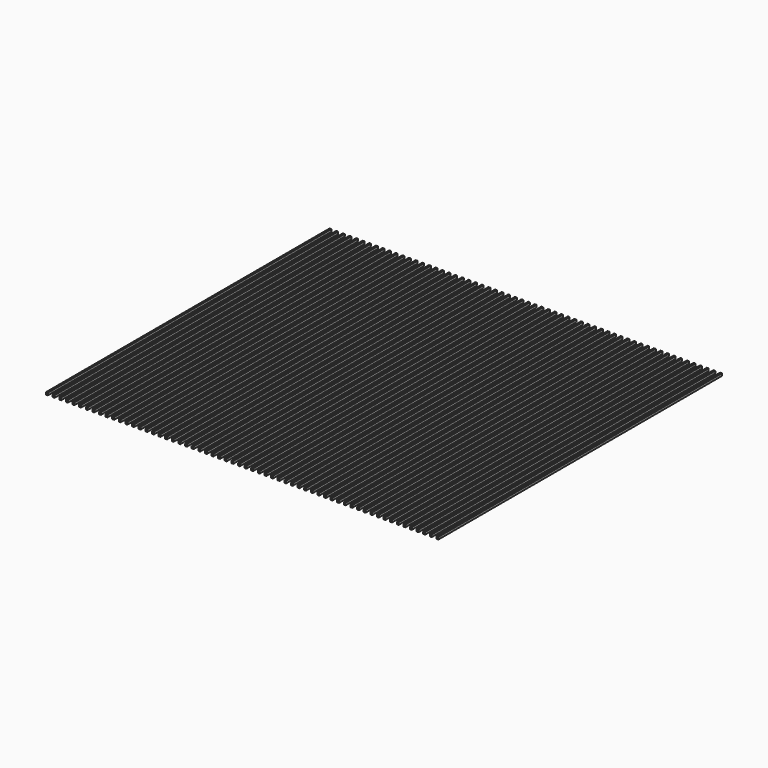
from build123d import *

# Parameters (mm, degrees)
F0_W     = 0.394736
F0_H     = 75
F1_DEPTH = 0.5


with BuildPart() as f1:
    # F0 (on Top) → F1 (new body)
    with BuildSketch(Plane.XY):
        with Locations((-5.73816, 0)):
            Rectangle(F0_W, F0_H)
        with Locations((18.06184, 0)):
            Rectangle(F0_W, F0_H)
        with Locations((-2.93816, 0)):
            Rectangle(F0_W, F0_H)
        with Locations((19.46184, 0)):
            Rectangle(F0_W, F0_H)
        with Locations((40.46184, 0)):
            Rectangle(F0_W, F0_H)
        with Locations((-4.33816, 0)):
            Rectangle(F0_W, F0_H)
        with Locations((16.66184, 0)):
            Rectangle(F0_W, F0_H)
        with Locations((39.06184, 0)):
            Rectangle(F0_W, F0_H)
        with Locations((1.26184, 0)):
            Rectangle(F0_W, F0_H)
        with Locations((23.66184, 0)):
            Rectangle(F0_W, F0_H)
        with Locations((20.86184, 0)):
            Rectangle(F0_W, F0_H)
        with Locations((-1.53816, 0)):
            Rectangle(F0_W, F0_H)
        with Locations((22.26184, 0)):
            Rectangle(F0_W, F0_H)
        with Locations((-0.13816, 0)):
            Rectangle(F0_W, F0_H)
        with Locations((-19.73816, 0)):
            Rectangle(F0_W, F0_H)
        with Locations((25.06184, 0)):
            Rectangle(F0_W, F0_H)
        with Locations((2.66184, 0)):
            Rectangle(F0_W, F0_H)
        with Locations((-18.33816, 0)):
            Rectangle(F0_W, F0_H)
        with Locations((26.46184, 0)):
            Rectangle(F0_W, F0_H)
        with Locations((4.06184, 0)):
            Rectangle(F0_W, F0_H)
        with Locations((-16.93816, 0)):
            Rectangle(F0_W, F0_H)
        with Locations((27.86184, 0)):
            Rectangle(F0_W, F0_H)
        with Locations((5.46184, 0)):
            Rectangle(F0_W, F0_H)
        with Locations((-15.53816, 0)):
            Rectangle(F0_W, F0_H)
        with Locations((29.26184, 0)):
            Rectangle(F0_W, F0_H)
        with Locations((6.86184, 0)):
            Rectangle(F0_W, F0_H)
        with Locations((-14.13816, 0)):
            Rectangle(F0_W, F0_H)
        with Locations((30.66184, 0)):
            Rectangle(F0_W, F0_H)
        with Locations((8.26184, 0)):
            Rectangle(F0_W, F0_H)
        with Locations((-12.73816, 0)):
            Rectangle(F0_W, F0_H)
        with Locations((32.06184, 0)):
            Rectangle(F0_W, F0_H)
        with Locations((9.66184, 0)):
            Rectangle(F0_W, F0_H)
        with Locations((33.46184, 0)):
            Rectangle(F0_W, F0_H)
        with Locations((11.06184, 0)):
            Rectangle(F0_W, F0_H)
        with Locations((-11.33816, 0)):
            Rectangle(F0_W, F0_H)
        with Locations((-21.13816, 0)):
            Rectangle(F0_W, F0_H)
        with Locations((-23.93816, 0)):
            Rectangle(F0_W, F0_H)
        with Locations((-22.53816, 0)):
            Rectangle(F0_W, F0_H)
        with Locations((-42.13816, 0)):
            Rectangle(F0_W, F0_H)
        with Locations((-40.73816, 0)):
            Rectangle(F0_W, F0_H)
        with Locations((-39.33816, 0)):
            Rectangle(F0_W, F0_H)
        with Locations((-37.93816, 0)):
            Rectangle(F0_W, F0_H)
        with Locations((-36.53816, 0)):
            Rectangle(F0_W, F0_H)
        with Locations((-35.13816, 0)):
            Rectangle(F0_W, F0_H)
        with Locations((-33.73816, 0)):
            Rectangle(F0_W, F0_H)
        with Locations((-32.33816, 0)):
            Rectangle(F0_W, F0_H)
        with Locations((-30.93816, 0)):
            Rectangle(F0_W, F0_H)
        with Locations((-29.53816, 0)):
            Rectangle(F0_W, F0_H)
        with Locations((-28.13816, 0)):
            Rectangle(F0_W, F0_H)
        with Locations((-26.73816, 0)):
            Rectangle(F0_W, F0_H)
        with Locations((-25.33816, 0)):
            Rectangle(F0_W, F0_H)
        with Locations((34.86184, 0)):
            Rectangle(F0_W, F0_H)
        with Locations((12.46184, 0)):
            Rectangle(F0_W, F0_H)
        with Locations((-9.93816, 0)):
            Rectangle(F0_W, F0_H)
        with Locations((36.26184, 0)):
            Rectangle(F0_W, F0_H)
        with Locations((13.86184, 0)):
            Rectangle(F0_W, F0_H)
        with Locations((-8.53816, 0)):
            Rectangle(F0_W, F0_H)
        with Locations((37.66184, 0)):
            Rectangle(F0_W, F0_H)
        with Locations((15.26184, 0)):
            Rectangle(F0_W, F0_H)
        with Locations((-7.13816, 0)):
            Rectangle(F0_W, F0_H)
    extrude(amount=F1_DEPTH)


solid = f1.part
